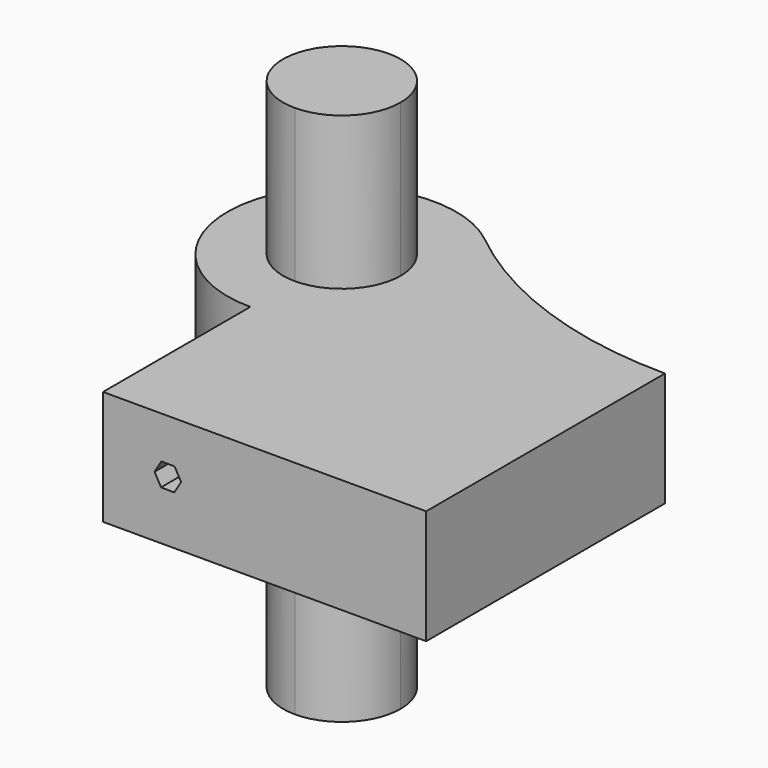
from build123d import *

# Parameters (mm, degrees)
F1_DEPTH = 30
F2_DEPTH = 70
F4_DEPTH = 125


with BuildPart() as f1:
    # F0 (on Top) → F1 (new body)
    with BuildSketch(Plane.XY):
        with BuildLine():
            ThreePointArc((-23.4990818194, 62.4621903911), (-70.6538983107, 49.154732424), (-42.3735489763, 9.1436464927))
            Line((-42.3735489763, 9.1436464927), (-42.3735489763, 23.7392992028))
            ThreePointArc((-42.3735489763, 23.7392992028), (-53.2660674047, 50.0361649211), (-26.9692016865, 39.1436464927))
            Line((-26.9692016865, 39.1436464927), (-12.3735489763, 39.1436464927))
            ThreePointArc((-12.3735489763, 39.1436464927), (-15.2974154386, 52.0619665323), (-23.4990818194, 62.4621903911))
        make_face()
        with BuildLine():
            Line((-12.3735489763, 39.1436464927), (42.3735489763, 39.1436464927))
            ThreePointArc((42.3735489763, 39.1436464927), (7.4344663557, 45.145294775), (-23.4990818194, 62.4621903911))
            ThreePointArc((-23.4990818194, 62.4621903911), (-15.2974154386, 52.0619665323), (-12.3735489763, 39.1436464927))
        make_face()
        with BuildLine():
            Line((-42.3735489763, -39.1436464927), (42.3735489763, -39.1436464927))
            Line((42.3735489763, -39.1436464927), (42.3735489763, 39.1436464927))
            Line((42.3735489763, 39.1436464927), (-12.3735489763, 39.1436464927))
            ThreePointArc((-12.3735489763, 39.1436464927), (-21.1603455407, 17.9304430571), (-42.3735489763, 9.1436464927))
            Line((-42.3735489763, 9.1436464927), (-42.3735489763, -39.1436464927))
        make_face()
        with BuildLine():
            Line((-42.3735489763, 23.7392992028), (-42.3735489763, 9.1436464927))
            ThreePointArc((-42.3735489763, 9.1436464927), (-21.1603455407, 17.9304430571), (-12.3735489763, 39.1436464927))
            Line((-12.3735489763, 39.1436464927), (-26.9692016865, 39.1436464927))
            ThreePointArc((-26.9692016865, 39.1436464927), (-31.4810305479, 28.2511280643), (-42.3735489763, 23.7392992028))
        make_face()
    extrude(amount=F1_DEPTH)


with BuildPart() as f2:
    # F0 (on Top) → F2 (new body, symmetric)
    with BuildSketch(Plane.XY):
        with BuildLine():
            ThreePointArc((-26.9692016865, 39.1436464927), (-53.2660674047, 50.0361649211), (-42.3735489763, 23.7392992028))
            Line((-42.3735489763, 23.7392992028), (-42.3735489763, 39.1436464927))
            Line((-42.3735489763, 39.1436464927), (-26.9692016865, 39.1436464927))
        make_face()
        with BuildLine():
            Line((-42.3735489763, 39.1436464927), (-42.3735489763, 23.7392992028))
            ThreePointArc((-42.3735489763, 23.7392992028), (-31.4810305479, 28.2511280643), (-26.9692016865, 39.1436464927))
            Line((-26.9692016865, 39.1436464927), (-42.3735489763, 39.1436464927))
        make_face()
    extrude(amount=F2_DEPTH, both=True)


with BuildPart() as f4_tool:
    # F3 (on face) → F4 (new body)
    with BuildSketch(Plane.XZ.offset(39.1436464927)):
        Polygon((-23.6786928732, 12.8742545268), (-21.895729939, 15.8602743126), (-23.5902174627, 18.8973754005), (-27.0676679205, 18.9484567026), (-28.8506308547, 15.9624369167), (-27.156143331, 12.9253358288), align=None)
    extrude(amount=-F4_DEPTH)


with BuildPart() as f1_1:
    add(f1.part)

    # F4: cut by f4_tool
    add(f4_tool.part, mode=Mode.SUBTRACT)


with BuildPart() as f2_1:
    add(f2.part)

    # F4: cut by f4_tool
    add(f4_tool.part, mode=Mode.SUBTRACT)


solid = Compound([f1_1.part, f2_1.part])
